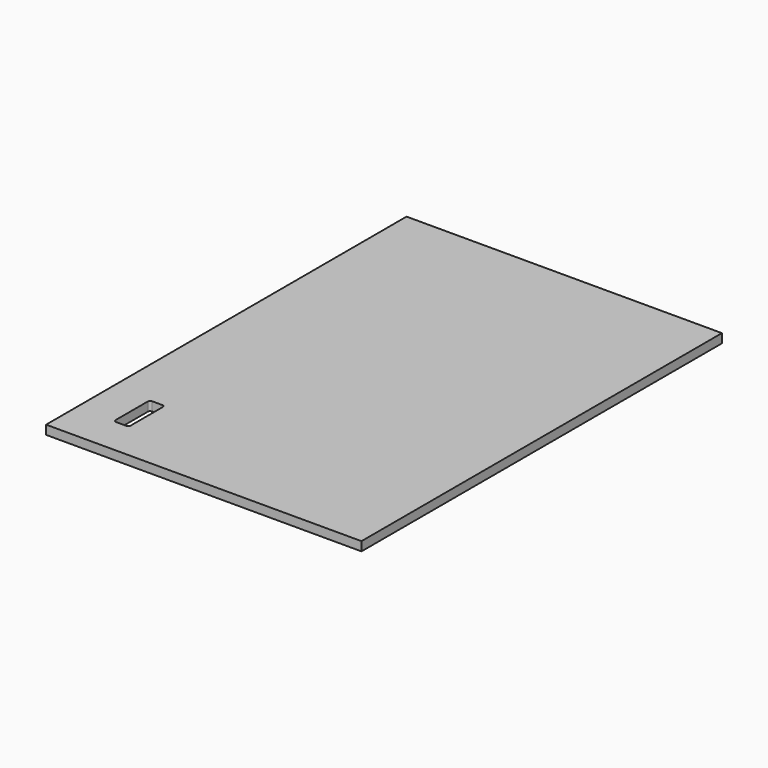
from build123d import *

# Parameters (mm, degrees)
SKETCH_W  = 420
SKETCH_H  = 600
PAD_DEPTH = 12


with BuildPart() as part:
    # Sketch → Pad (new body)
    with BuildSketch(Plane.XY):
        with Locations((210, 300)):
            Rectangle(SKETCH_W, SKETCH_H)
        with BuildLine():
            Line((50, 107), (50, 53))
            ThreePointArc((50, 53), (50.87868, 50.87868), (53, 50))
            Line((53, 50), (67, 50))
            ThreePointArc((67, 50), (69.12132, 50.87868), (70, 53))
            Line((70, 107), (70, 53))
            ThreePointArc((70, 107), (69.121312, 109.121328), (66.999977, 110))
            Line((53, 110), (66.999977, 110))
            ThreePointArc((53, 110), (50.87868, 109.12132), (50, 107))
        make_face(mode=Mode.SUBTRACT)
    extrude(amount=PAD_DEPTH)


solid = part.part
